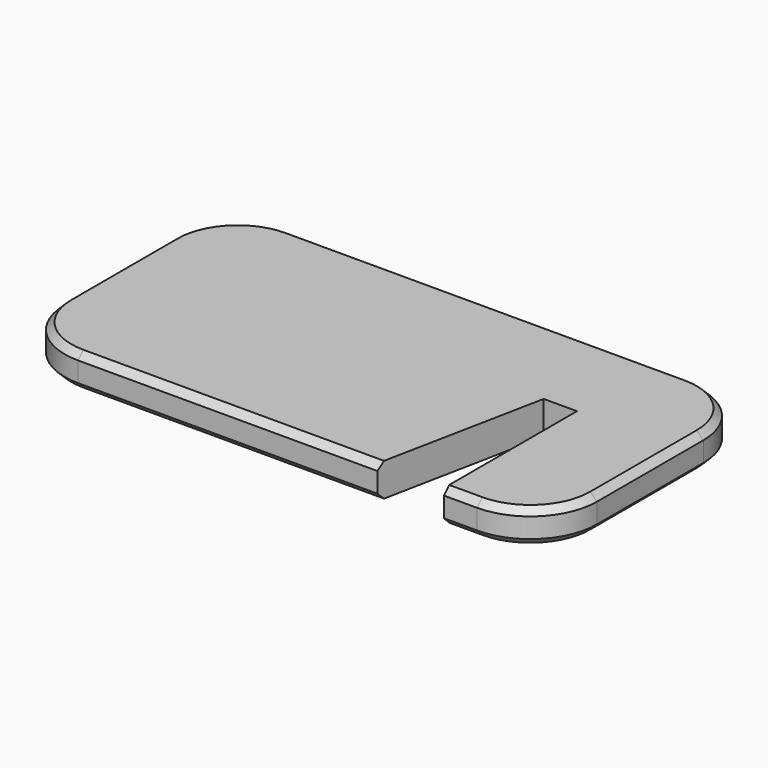
from build123d import *

# Parameters (mm, degrees)
F1_DEPTH = 5
F2_R     = 10
F3_SIZE  = 1


with BuildPart() as f1:
    # F0 (on Top) → F1 (new body)
    with BuildSketch(Plane.XY):
        Polygon((0, 40), (0, 0), (55, 0), (60, 25), (65, 25), (65, 0), (80, 0), (80, 40), align=None)
    extrude(amount=F1_DEPTH)

    # F2
    f2_edges = [f1.edges().sort_by_distance(p)[0] for p in [
        (80, 0, 2.5),
        (80, 40, 2.5),
        (0, 40, 2.5),
        (0, 0, 2.5),
    ]]
    fillet(f2_edges, radius=F2_R)

    # F3
    f3_edges = [f1.edges().sort_by_distance(p)[0] for p in [
        (77.071068, 2.928932, 5),
        (77.071068, 2.928932, 0),
    ]]
    chamfer(f3_edges, length=F3_SIZE)


solid = f1.part
